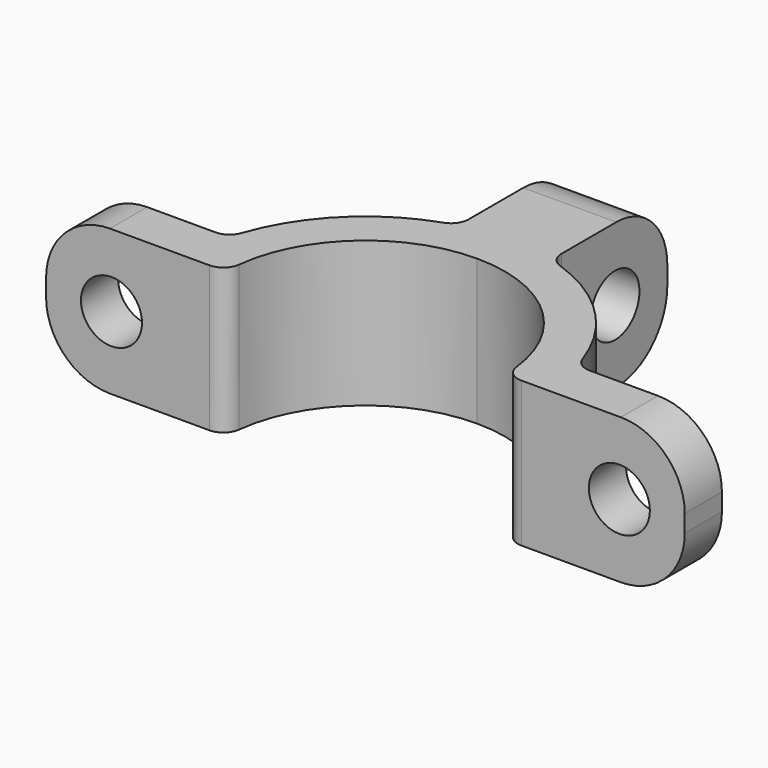
from build123d import *

# Parameters (mm, degrees)
F1_DEPTH = 25
F2_R     = 11
F3_R     = 3
F4_R     = 3
F6_D     = 10.5
F8_D     = 10.5


with BuildPart() as f1:
    # F0 (on Top) → F1 (new body)
    with BuildSketch(Plane.XY):
        with BuildLine():
            ThreePointArc((-42.475013, 13.076226), (-42.211382, 17.110535), (-41.424972, 21.076226))
            Line((-41.424972, 21.076226), (-66.424972, 21.076226))
            Line((-66.424972, 21.076226), (-66.424972, 13.076226))
            Line((-66.424972, 13.076226), (-42.475013, 13.076226))
        make_face()
        with BuildLine():
            Line((43.474945, 21.076226), (18.474945, 21.076226))
            ThreePointArc((18.474945, 21.076226), (19.261355, 17.110535), (19.524987, 13.076226))
            Line((19.524987, 13.076226), (43.474945, 13.076226))
            Line((43.474945, 13.076226), (43.474945, 21.076226))
        make_face()
        with BuildLine():
            ThreePointArc((-3.475013, 43.026184), (-7.440705, 43.812595), (-11.475013, 44.076226))
            ThreePointArc((-11.475013, 44.076226), (-15.509322, 43.812595), (-19.475013, 43.026184))
            ThreePointArc((-19.475013, 43.026184), (-33.395323, 34.996536), (-41.424972, 21.076226))
            ThreePointArc((-41.424972, 21.076226), (-42.211382, 17.110535), (-42.475013, 13.076226))
            Line((-42.475013, 13.076226), (-35.475013, 13.076226))
            ThreePointArc((-35.475013, 13.076226), (-28.445576, 30.046789), (-11.475013, 37.076226))
            ThreePointArc((-11.475013, 37.076226), (5.495549, 30.046789), (12.524987, 13.076226))
            Line((12.524987, 13.076226), (19.524987, 13.076226))
            ThreePointArc((19.524987, 13.076226), (19.261355, 17.110535), (18.474945, 21.076226))
            ThreePointArc((18.474945, 21.076226), (10.445297, 34.996536), (-3.475013, 43.026184))
        make_face()
        with BuildLine():
            ThreePointArc((-19.475013, 43.026184), (-15.509322, 43.812595), (-11.475013, 44.076226))
            ThreePointArc((-11.475013, 44.076226), (-7.440705, 43.812595), (-3.475013, 43.026184))
            Line((-3.475013, 43.026184), (-3.475013, 68.026184))
            Line((-3.475013, 68.026184), (-19.475013, 68.026184))
            Line((-19.475013, 68.026184), (-19.475013, 43.026184))
        make_face()
    extrude(amount=F1_DEPTH)

    # F2
    f2_edges = [f1.edges().sort_by_distance(p)[0] for p in [
        (43.474945, 17.076226, 0),
        (43.474945, 17.076226, 25),
        (-66.424972, 17.076226, 25),
        (-66.424972, 17.076226, 0),
        (-11.475013, 68.026184, 0),
        (-11.475013, 68.026184, 25),
    ]]
    fillet(f2_edges, radius=F2_R)

    # F3
    f3_edges = [f1.edges().sort_by_distance(p)[0] for p in [
        (-35.475013, 13.076226, 12.5),
        (12.524987, 13.076226, 12.5),
    ]]
    fillet(f3_edges, radius=F3_R)

    # F4
    f4_edges = [f1.edges().sort_by_distance(p)[0] for p in [
        (-41.424972, 21.076226, 12.5),
        (18.474945, 21.076226, 12.5),
        (-3.475013, 43.026184, 12.5),
        (-19.475013, 43.026184, 12.5),
    ]]
    fillet(f4_edges, radius=F4_R)

    # F6 (through all)
    with Locations(Plane(origin=(0, 21.076226, 0), x_dir=(-1, 0, 0), z_dir=(0, 1, 0))):
        with Locations((55.174972, 12.5), (-32.224945, 12.5)):
            Hole(F6_D / 2)

    # F8 (through all)
    with Locations(Plane.YZ.offset(-3.475013)):
        with Locations((56.776184, 12.5)):
            Hole(F8_D / 2)


solid = f1.part
